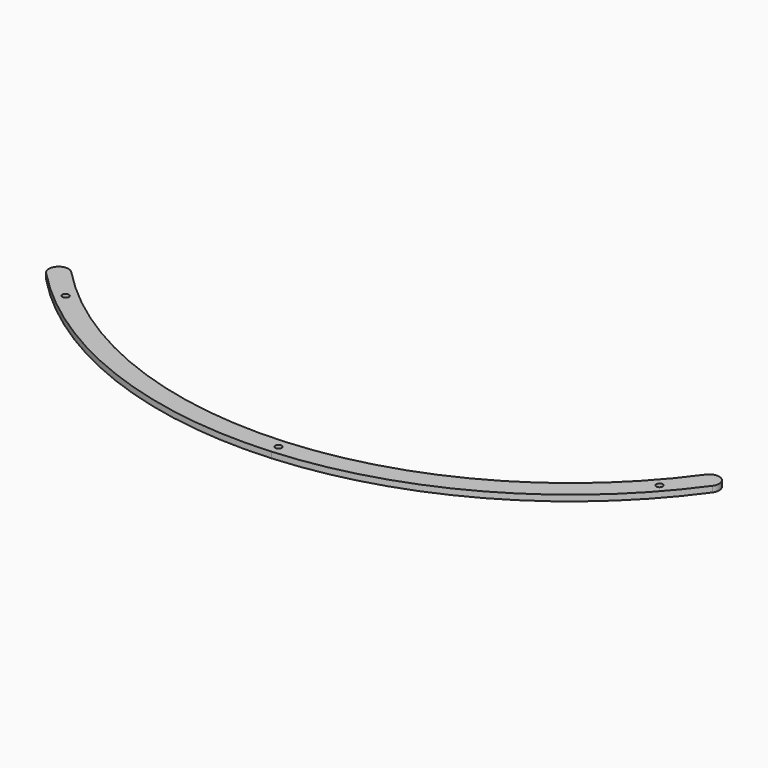
from build123d import *

# Parameters (mm, degrees)
PAD014_DEPTH                        = 3
SKETCH055_R                         = 1.65
POCKET019_DEPTH                     = 364.282338
POCKET019_DEPTH_BACK                = 367.282338
BODY001003005003003_PLACEMENT_ANGLE = 60
CLONE002_PLACEMENT_ANGLE            = 124


with BuildPart() as part:
    # Sketch052 → Pad014 (new body)
    with BuildSketch(Plane.XY):
        with BuildLine():
            ThreePointArc((152.959511, 127.101705), (84.480895, 180.040089), (0, 198.875477))
            Line((0, 198.875477), (0, 208.875477))
            ThreePointArc((160.650731, 133.492724), (88.728824, 189.092995), (0, 208.875477))
            ThreePointArc((152.959511, 127.101705), (160.000631, 126.451604), (160.650731, 133.492724))
        make_face()
    pad014 = extrude(amount=PAD014_DEPTH)

    # Sketch055 → Pocket019 (cut, two sides)
    with BuildSketch(Plane.XY) as pocket019_sk:
        with Locations((143.11, 145.205847)):
            Circle(SKETCH055_R)
        with BuildLine():
            Line((0, 202.225477), (0, 205.525477))
            ThreePointArc((0, 202.225477), (1.65, 203.875477), (0, 205.525477))
        make_face()
    pocket019 = extrude(amount=-POCKET019_DEPTH, mode=Mode.SUBTRACT) + extrude(pocket019_sk.sketch, amount=POCKET019_DEPTH_BACK, mode=Mode.SUBTRACT)

    # Mirrored019: Pad014, Pocket019 across Sketch052 V_Axis
    add(pad014.mirror(Plane(origin=(0, 0, 0), x_dir=(0, 0, 1), z_dir=(1, 0, 0))))
    add(pocket019.mirror(Plane(origin=(0, 0, 0), x_dir=(0, 0, 1), z_dir=(1, 0, 0))), mode=Mode.SUBTRACT)


with BuildPart() as part_1:
    # Body001003005003003 placement: moved
    add(part.part.rotate(Axis((0, 0, 0), (0, 0, 1)), BODY001003005003003_PLACEMENT_ANGLE))


with BuildPart() as part_2:
    # Clone002 placement: moved
    add(part_1.part.moved(Location((1305, 724, 0))).rotate(Axis((1305, 724, 0), (0, 0, 1)), CLONE002_PLACEMENT_ANGLE))


solid = part_2.part
